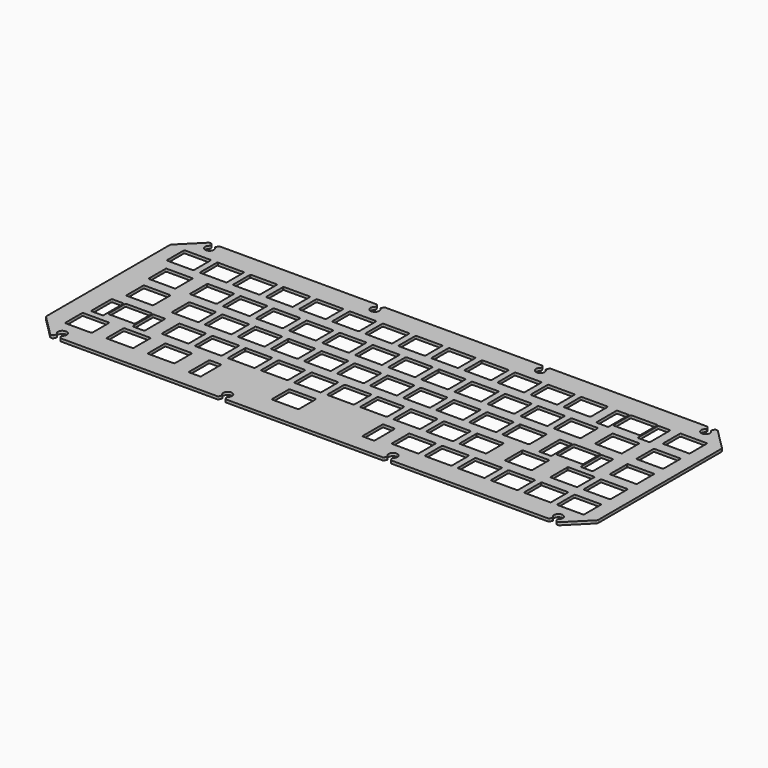
from build123d import *

# Parameters (mm, degrees)
PAD_DEPTH = 1.6


with BuildPart() as part:
    # Sketch → Pad (new body)
    with BuildSketch(Plane.XY):
        with BuildLine():
            ThreePointArc((-146.81466, -56.860608), (-146.32803, -57.185787), (-145.754, -57.299982))
            Line((-145.489, -57.299986), (-145.754, -57.299982))
            ThreePointArc((-145.489, -57.299986), (-145.09473, -57.187997), (-144.818209, -56.885464))
            Line((-144.289404, -55.82809), (-144.818209, -56.885464))
            ThreePointArc((-144.289404, -55.82809), (-144.225955, -55.339903), (-144.478952, -54.917593))
            ThreePointArc((-141.271129, -54.917616), (-142.87501, -50.500052), (-144.478952, -54.917593))
            ThreePointArc((-141.271129, -54.917616), (-141.524193, -55.340066), (-141.460664, -55.8284))
            Line((-140.931734, -56.885582), (-141.460664, -55.8284))
            ThreePointArc((-140.931734, -56.885582), (-140.655217, -57.188039), (-140.261, -57.3))
            Line((-50.2385, -57.3), (-140.261, -57.3))
            ThreePointArc((-50.2385, -57.3), (-49.844202, -57.187988), (-49.56768, -56.88541))
            Line((-49.03918, -55.828411), (-49.56768, -56.88541))
            ThreePointArc((-49.03918, -55.828411), (-48.975753, -55.340091), (-49.228841, -54.917686))
            ThreePointArc((-46.021178, -54.917702), (-47.624987, -50.500035), (-49.228841, -54.917686))
            ThreePointArc((-46.021178, -54.917702), (-46.274265, -55.340099), (-46.210837, -55.828411))
            Line((-45.682324, -56.885416), (-46.210837, -55.828411))
            ThreePointArc((-45.682324, -56.885416), (-45.405802, -57.18799), (-45.011507, -57.3))
            Line((45.0115, -57.3), (-45.011507, -57.3))
            ThreePointArc((45.0115, -57.3), (45.405795, -57.18799), (45.682317, -56.885416))
            Line((46.210826, -55.828423), (45.682317, -56.885416))
            ThreePointArc((46.210826, -55.828423), (46.274256, -55.340102), (46.021169, -54.917695))
            ThreePointArc((49.228863, -54.917718), (47.625047, -50.500016), (46.021169, -54.917695))
            ThreePointArc((49.228863, -54.917718), (48.975778, -55.340105), (49.039197, -55.828408))
            Line((49.567675, -56.885401), (49.039197, -55.828408))
            ThreePointArc((49.567675, -56.885401), (49.844197, -57.187985), (50.2385, -57.3))
            Line((140.261, -57.3), (50.2385, -57.3))
            ThreePointArc((140.261, -57.3), (140.655222, -57.188035), (140.93174, -56.88557))
            Line((141.460636, -55.828411), (140.93174, -56.88557))
            ThreePointArc((141.460636, -55.828411), (141.524145, -55.340067), (141.27104, -54.917632))
            ThreePointArc((144.478439, -54.917377), (142.874388, -50.500265), (141.27104, -54.917632))
            ThreePointArc((144.478439, -54.917377), (144.225353, -55.339962), (144.289, -55.82841))
            Line((144.818354, -56.885743), (144.289, -55.82841))
            ThreePointArc((144.818354, -56.885743), (145.094868, -57.188074), (145.489, -57.299984))
            Line((145.754, -57.299984), (145.489, -57.299984))
            ThreePointArc((145.754, -57.299984), (146.328026, -57.185801), (146.81466, -56.860637))
            Line((158.435683, -45.23936), (146.81466, -56.860637))
            ThreePointArc((158.435683, -45.23936), (158.760838, -44.752724), (158.875016, -44.1787))
            Line((158.875016, 44.1787), (158.875016, -44.1787))
            ThreePointArc((158.875016, 44.1787), (158.760838, 44.752724), (158.435683, 45.23936))
            Line((146.81466, 56.860637), (158.435683, 45.23936))
            ThreePointArc((146.81466, 56.860637), (146.328026, 57.185801), (145.754, 57.299984))
            Line((145.488999, 57.299984), (145.754, 57.299984))
            ThreePointArc((145.488999, 57.299984), (145.094781, 57.188021), (144.818263, 56.885561))
            Line((144.289355, 55.8284), (144.818263, 56.885561))
            ThreePointArc((144.289355, 55.8284), (144.225832, 55.340081), (144.47889, 54.917645))
            ThreePointArc((141.271102, 54.917662), (142.874973, 50.500026), (144.47889, 54.917645))
            ThreePointArc((141.271102, 54.917662), (141.524163, 55.340094), (141.460643, 55.828411))
            Line((140.931738, 56.885574), (141.460643, 55.828411))
            ThreePointArc((140.931738, 56.885574), (140.65522, 57.188036), (140.261, 57.3))
            Line((50.2385, 57.3), (140.261, 57.3))
            ThreePointArc((50.2385, 57.3), (49.844201, 57.187988), (49.567679, 56.885408))
            Line((49.039178, 55.8284), (49.567679, 56.885408))
            ThreePointArc((49.039178, 55.8284), (48.975754, 55.340084), (49.228843, 54.917685))
            ThreePointArc((46.021179, 54.917657), (47.625049, 50.500052), (49.228843, 54.917685))
            ThreePointArc((46.021179, 54.917657), (46.27427, 55.340077), (46.210836, 55.828411))
            Line((45.682316, 56.885418), (46.210836, 55.828411))
            ThreePointArc((45.682316, 56.885418), (45.405795, 57.18799), (45.0115, 57.3))
            Line((-45.0115, 57.3), (45.0115, 57.3))
            ThreePointArc((-45.0115, 57.3), (-45.405801, 57.187986), (-45.682323, 56.885404))
            Line((-46.210808, 55.828411), (-45.682323, 56.885404))
            ThreePointArc((-46.210808, 55.828411), (-46.274228, 55.340107), (-46.021144, 54.917719))
            ThreePointArc((-49.228838, 54.917689), (-47.62495, 50.500017), (-46.021144, 54.917719))
            ThreePointArc((-49.228838, 54.917689), (-48.975753, 55.340093), (-49.039181, 55.828411))
            Line((-49.567686, 56.885412), (-49.039181, 55.828411))
            ThreePointArc((-49.567686, 56.885412), (-49.844208, 57.187989), (-50.238505, 57.3))
            Line((-140.261, 57.3), (-50.238505, 57.3))
            ThreePointArc((-140.261, 57.3), (-140.655192, 57.188054), (-140.931708, 56.885634))
            Line((-141.460679, 55.828575), (-140.931708, 56.885634))
            ThreePointArc((-141.460679, 55.828575), (-141.524241, 55.34018), (-141.271143, 54.917673))
            ThreePointArc((-144.478877, 54.917661), (-142.874994, 50.500033), (-141.271143, 54.917673))
            ThreePointArc((-144.478877, 54.917661), (-144.22581, 55.340083), (-144.2893, 55.8284))
            Line((-144.818103, 56.885568), (-144.2893, 55.8284))
            ThreePointArc((-144.818103, 56.885568), (-145.094683, 57.188123), (-145.489012, 57.300104))
            Line((-145.754, 57.300086), (-145.489012, 57.300104))
            ThreePointArc((-145.754, 57.300086), (-146.32803, 57.185868), (-146.81466, 56.860679))
            Line((-158.435404, 45.23902), (-146.81466, 56.860679))
            ThreePointArc((-158.435404, 45.23902), (-158.760441, 44.752537), (-158.874578, 44.1787))
            Line((-158.874574, -44.1787), (-158.874578, 44.1787))
            ThreePointArc((-158.874574, -44.1787), (-158.760437, -44.752537), (-158.435398, -45.23902))
            Line((-146.81466, -56.860608), (-158.435398, -45.23902))
        make_face()
        with BuildLine():
            ThreePointArc((-150.125, 44.5), (-150.478553, 44.353553), (-150.625, 44))
            Line((-150.625, 44), (-150.625, 32.2))
            ThreePointArc((-150.625, 32.2), (-150.478553, 31.846447), (-150.125, 31.7))
            Line((-150.125, 31.7), (-135.625, 31.7))
            ThreePointArc((-135.625, 31.7), (-135.271447, 31.846447), (-135.125, 32.2))
            Line((-135.125, 44), (-135.125, 32.2))
            ThreePointArc((-135.125, 44), (-135.271447, 44.353553), (-135.625, 44.5))
            Line((-150.125, 44.5), (-135.625, 44.5))
        make_face(mode=Mode.SUBTRACT)
        with BuildLine():
            ThreePointArc((-131.075, 44.5), (-131.428553, 44.353553), (-131.575, 44))
            Line((-131.575, 44), (-131.575, 32.2))
            ThreePointArc((-131.575, 32.2), (-131.428553, 31.846447), (-131.075, 31.7))
            Line((-131.075, 31.7), (-116.575, 31.7))
            ThreePointArc((-116.575, 31.7), (-116.221447, 31.846447), (-116.075, 32.2))
            Line((-116.075, 44), (-116.075, 32.2))
            ThreePointArc((-116.075, 44), (-116.221447, 44.353553), (-116.575, 44.5))
            Line((-131.075, 44.5), (-116.575, 44.5))
        make_face(mode=Mode.SUBTRACT)
        with BuildLine():
            ThreePointArc((-112.025, 44.5), (-112.378553, 44.353553), (-112.525, 44))
            Line((-112.525, 44), (-112.525, 32.2))
            ThreePointArc((-112.525, 32.2), (-112.378553, 31.846447), (-112.025, 31.7))
            Line((-112.025, 31.7), (-97.525, 31.7))
            ThreePointArc((-97.525, 31.7), (-97.171447, 31.846447), (-97.025, 32.2))
            Line((-97.025, 44), (-97.025, 32.2))
            ThreePointArc((-97.025, 44), (-97.171447, 44.353553), (-97.525, 44.5))
            Line((-112.025, 44.5), (-97.525, 44.5))
        make_face(mode=Mode.SUBTRACT)
        with BuildLine():
            ThreePointArc((-92.975, 44.5), (-93.328553, 44.353553), (-93.475, 44))
            Line((-93.475, 44), (-93.475, 32.2))
            ThreePointArc((-93.475, 32.2), (-93.328553, 31.846447), (-92.975, 31.7))
            Line((-92.975, 31.7), (-78.475, 31.7))
            ThreePointArc((-78.475, 31.7), (-78.121447, 31.846447), (-77.975, 32.2))
            Line((-77.975, 44), (-77.975, 32.2))
            ThreePointArc((-77.975, 44), (-78.121447, 44.353553), (-78.475, 44.5))
            Line((-92.975, 44.5), (-78.475, 44.5))
        make_face(mode=Mode.SUBTRACT)
        with BuildLine():
            ThreePointArc((-73.925, 44.5), (-74.278553, 44.353553), (-74.425, 44))
            Line((-74.425, 44), (-74.425, 32.2))
            ThreePointArc((-74.425, 32.2), (-74.278553, 31.846447), (-73.925, 31.7))
            Line((-73.925, 31.7), (-59.425, 31.7))
            ThreePointArc((-59.425, 31.7), (-59.071447, 31.846447), (-58.925, 32.2))
            Line((-58.925, 44), (-58.925, 32.2))
            ThreePointArc((-58.925, 44), (-59.071447, 44.353553), (-59.425, 44.5))
            Line((-73.925, 44.5), (-59.425, 44.5))
        make_face(mode=Mode.SUBTRACT)
        with BuildLine():
            ThreePointArc((-54.875, 44.5), (-55.228553, 44.353553), (-55.375, 44))
            Line((-55.375, 44), (-55.375, 32.2))
            ThreePointArc((-55.375, 32.2), (-55.228553, 31.846447), (-54.875, 31.7))
            Line((-54.875, 31.7), (-40.375, 31.7))
            ThreePointArc((-40.375, 31.7), (-40.021447, 31.846447), (-39.875, 32.2))
            Line((-39.875, 44), (-39.875, 32.2))
            ThreePointArc((-39.875, 44), (-40.021447, 44.353553), (-40.375, 44.5))
            Line((-54.875, 44.5), (-40.375, 44.5))
        make_face(mode=Mode.SUBTRACT)
        with BuildLine():
            ThreePointArc((-35.825, 44.5), (-36.178553, 44.353553), (-36.325, 44))
            Line((-36.325, 44), (-36.325, 32.2))
            ThreePointArc((-36.325, 32.2), (-36.178553, 31.846447), (-35.825, 31.7))
            Line((-35.825, 31.7), (-21.325, 31.7))
            ThreePointArc((-21.325, 31.7), (-20.971447, 31.846447), (-20.825, 32.2))
            Line((-20.825, 44), (-20.825, 32.2))
            ThreePointArc((-20.825, 44), (-20.971447, 44.353553), (-21.325, 44.5))
            Line((-35.825, 44.5), (-21.325, 44.5))
        make_face(mode=Mode.SUBTRACT)
        with BuildLine():
            ThreePointArc((-16.775, 44.5), (-17.128553, 44.353553), (-17.275, 44))
            Line((-17.275, 44), (-17.275, 32.2))
            ThreePointArc((-17.275, 32.2), (-17.128553, 31.846447), (-16.775, 31.7))
            Line((-16.775, 31.7), (-2.275, 31.7))
            ThreePointArc((-2.275, 31.7), (-1.921447, 31.846447), (-1.775, 32.2))
            Line((-1.775, 44), (-1.775, 32.2))
            ThreePointArc((-1.775, 44), (-1.921447, 44.353553), (-2.275, 44.5))
            Line((-16.775, 44.5), (-2.275, 44.5))
        make_face(mode=Mode.SUBTRACT)
        with BuildLine():
            ThreePointArc((2.275, 44.5), (1.921447, 44.353553), (1.775, 44))
            Line((1.775, 44), (1.775, 32.2))
            ThreePointArc((1.775, 32.2), (1.921447, 31.846447), (2.275, 31.7))
            Line((2.275, 31.7), (16.775, 31.7))
            ThreePointArc((16.775, 31.7), (17.128553, 31.846447), (17.275, 32.2))
            Line((17.275, 44), (17.275, 32.2))
            ThreePointArc((17.275, 44), (17.128553, 44.353553), (16.775, 44.5))
            Line((2.275, 44.5), (16.775, 44.5))
        make_face(mode=Mode.SUBTRACT)
        with BuildLine():
            ThreePointArc((21.325, 44.5), (20.971447, 44.353553), (20.825, 44))
            Line((20.825, 44), (20.825, 32.2))
            ThreePointArc((20.825, 32.2), (20.971447, 31.846447), (21.325, 31.7))
            Line((21.325, 31.7), (35.825, 31.7))
            ThreePointArc((35.825, 31.7), (36.178553, 31.846447), (36.325, 32.2))
            Line((36.325, 44), (36.325, 32.2))
            ThreePointArc((36.325, 44), (36.178553, 44.353553), (35.825, 44.5))
            Line((21.325, 44.5), (35.825, 44.5))
        make_face(mode=Mode.SUBTRACT)
        with BuildLine():
            ThreePointArc((40.375, 44.5), (40.021447, 44.353553), (39.875, 44))
            Line((39.875, 44), (39.875, 32.2))
            ThreePointArc((39.875, 32.2), (40.021447, 31.846447), (40.375, 31.7))
            Line((40.375, 31.7), (54.875, 31.7))
            ThreePointArc((54.875, 31.7), (55.228553, 31.846447), (55.375, 32.2))
            Line((55.375, 44), (55.375, 32.2))
            ThreePointArc((55.375, 44), (55.228553, 44.353553), (54.875, 44.5))
            Line((40.375, 44.5), (54.875, 44.5))
        make_face(mode=Mode.SUBTRACT)
        with BuildLine():
            ThreePointArc((59.425, 44.5), (59.071447, 44.353553), (58.925, 44))
            Line((58.925, 44), (58.925, 32.2))
            ThreePointArc((58.925, 32.2), (59.071447, 31.846447), (59.425, 31.7))
            Line((59.425, 31.7), (73.925, 31.7))
            ThreePointArc((73.925, 31.7), (74.278553, 31.846447), (74.425, 32.2))
            Line((74.425, 44), (74.425, 32.2))
            ThreePointArc((74.425, 44), (74.278553, 44.353553), (73.925, 44.5))
            Line((59.425, 44.5), (73.925, 44.5))
        make_face(mode=Mode.SUBTRACT)
        with BuildLine():
            ThreePointArc((78.475, 44.5), (78.121447, 44.353553), (77.975, 44))
            Line((77.975, 44), (77.975, 32.2))
            ThreePointArc((77.975, 32.2), (78.121447, 31.846447), (78.475, 31.7))
            Line((78.475, 31.7), (92.975, 31.7))
            ThreePointArc((92.975, 31.7), (93.328553, 31.846447), (93.475, 32.2))
            Line((93.475, 44), (93.475, 32.2))
            ThreePointArc((93.475, 44), (93.328553, 44.353553), (92.975, 44.5))
            Line((78.475, 44.5), (92.975, 44.5))
        make_face(mode=Mode.SUBTRACT)
        with BuildLine():
            ThreePointArc((107.05, 44.5), (106.696447, 44.353553), (106.55, 44))
            Line((106.55, 44), (106.55, 32.2))
            ThreePointArc((106.55, 32.2), (106.696447, 31.846447), (107.05, 31.7))
            Line((107.05, 31.7), (121.55, 31.7))
            ThreePointArc((121.55, 31.7), (121.903553, 31.846447), (122.05, 32.2))
            Line((122.05, 44), (122.05, 32.2))
            ThreePointArc((122.05, 44), (121.903553, 44.353553), (121.55, 44.5))
            Line((107.05, 44.5), (121.55, 44.5))
        make_face(mode=Mode.SUBTRACT)
        with BuildLine():
            ThreePointArc((99.362, 44.1), (99.008447, 43.953553), (98.862, 43.6))
            Line((98.862, 43.6), (98.862, 29.6))
            ThreePointArc((98.862, 29.6), (99.008447, 29.246447), (99.362, 29.1))
            Line((99.362, 29.1), (105.362, 29.1))
            ThreePointArc((105.362, 29.1), (105.715553, 29.246447), (105.862, 29.6))
            Line((105.862, 43.6), (105.862, 29.6))
            ThreePointArc((105.862, 43.6), (105.715553, 43.953553), (105.362, 44.1))
            Line((99.362, 44.1), (105.362, 44.1))
        make_face(mode=Mode.SUBTRACT)
        with BuildLine():
            ThreePointArc((123.238, 44.1), (122.884447, 43.953553), (122.738, 43.6))
            Line((122.738, 43.6), (122.738, 29.6))
            ThreePointArc((122.738, 29.6), (122.884447, 29.246447), (123.238, 29.1))
            Line((123.238, 29.1), (129.238, 29.1))
            ThreePointArc((129.238, 29.1), (129.591553, 29.246447), (129.738, 29.6))
            Line((129.738, 43.6), (129.738, 29.6))
            ThreePointArc((129.738, 43.6), (129.591553, 43.953553), (129.238, 44.1))
            Line((123.238, 44.1), (129.238, 44.1))
        make_face(mode=Mode.SUBTRACT)
        with BuildLine():
            ThreePointArc((135.625, 44.5), (135.271447, 44.353553), (135.125, 44))
            Line((135.125, 44), (135.125, 32.2))
            ThreePointArc((135.125, 32.2), (135.271447, 31.846447), (135.625, 31.7))
            Line((135.625, 31.7), (150.125, 31.7))
            ThreePointArc((150.125, 31.7), (150.478553, 31.846447), (150.625, 32.2))
            Line((150.625, 44), (150.625, 32.2))
            ThreePointArc((150.625, 44), (150.478553, 44.353553), (150.125, 44.5))
            Line((135.625, 44.5), (150.125, 44.5))
        make_face(mode=Mode.SUBTRACT)
        with BuildLine():
            ThreePointArc((-145.363, 25.45), (-145.716553, 25.303553), (-145.863, 24.95))
            Line((-145.863, 24.95), (-145.863, 13.15))
            ThreePointArc((-145.863, 13.15), (-145.716553, 12.796447), (-145.363, 12.65))
            Line((-145.363, 12.65), (-130.863, 12.65))
            ThreePointArc((-130.863, 12.65), (-130.509447, 12.796447), (-130.363, 13.15))
            Line((-130.363, 24.95), (-130.363, 13.15))
            ThreePointArc((-130.363, 24.95), (-130.509447, 25.303553), (-130.863, 25.45))
            Line((-145.363, 25.45), (-130.863, 25.45))
        make_face(mode=Mode.SUBTRACT)
        with BuildLine():
            ThreePointArc((-121.55, 25.45), (-121.903553, 25.303553), (-122.05, 24.95))
            Line((-122.05, 24.95), (-122.05, 13.15))
            ThreePointArc((-122.05, 13.15), (-121.903553, 12.796447), (-121.55, 12.65))
            Line((-121.55, 12.65), (-107.05, 12.65))
            ThreePointArc((-107.05, 12.65), (-106.696447, 12.796447), (-106.55, 13.15))
            Line((-106.55, 24.95), (-106.55, 13.15))
            ThreePointArc((-106.55, 24.95), (-106.696447, 25.303553), (-107.05, 25.45))
            Line((-121.55, 25.45), (-107.05, 25.45))
        make_face(mode=Mode.SUBTRACT)
        with BuildLine():
            ThreePointArc((-102.5, 25.45), (-102.853553, 25.303553), (-103, 24.95))
            Line((-103, 24.95), (-103, 13.15))
            ThreePointArc((-103, 13.15), (-102.853553, 12.796447), (-102.5, 12.65))
            Line((-102.5, 12.65), (-88, 12.65))
            ThreePointArc((-88, 12.65), (-87.646447, 12.796447), (-87.5, 13.15))
            Line((-87.5, 24.95), (-87.5, 13.15))
            ThreePointArc((-87.5, 24.95), (-87.646447, 25.303553), (-88, 25.45))
            Line((-102.5, 25.45), (-88, 25.45))
        make_face(mode=Mode.SUBTRACT)
        with BuildLine():
            ThreePointArc((-83.45, 25.45), (-83.803553, 25.303553), (-83.95, 24.95))
            Line((-83.95, 24.95), (-83.95, 13.15))
            ThreePointArc((-83.95, 13.15), (-83.803553, 12.796447), (-83.45, 12.65))
            Line((-83.45, 12.65), (-68.95, 12.65))
            ThreePointArc((-68.95, 12.65), (-68.596447, 12.796447), (-68.45, 13.15))
            Line((-68.45, 24.95), (-68.45, 13.15))
            ThreePointArc((-68.45, 24.95), (-68.596447, 25.303553), (-68.95, 25.45))
            Line((-83.45, 25.45), (-68.95, 25.45))
        make_face(mode=Mode.SUBTRACT)
        with BuildLine():
            ThreePointArc((-64.4, 25.45), (-64.753553, 25.303553), (-64.9, 24.95))
            Line((-64.9, 24.95), (-64.9, 13.15))
            ThreePointArc((-64.9, 13.15), (-64.753553, 12.796447), (-64.4, 12.65))
            Line((-64.4, 12.65), (-49.9, 12.65))
            ThreePointArc((-49.9, 12.65), (-49.546447, 12.796447), (-49.4, 13.15))
            Line((-49.4, 24.95), (-49.4, 13.15))
            ThreePointArc((-49.4, 24.95), (-49.546447, 25.303553), (-49.9, 25.45))
            Line((-64.4, 25.45), (-49.9, 25.45))
        make_face(mode=Mode.SUBTRACT)
        with BuildLine():
            ThreePointArc((-45.35, 25.45), (-45.703553, 25.303553), (-45.85, 24.95))
            Line((-45.85, 24.95), (-45.85, 13.15))
            ThreePointArc((-45.85, 13.15), (-45.703553, 12.796447), (-45.35, 12.65))
            Line((-45.35, 12.65), (-30.85, 12.65))
            ThreePointArc((-30.85, 12.65), (-30.496447, 12.796447), (-30.35, 13.15))
            Line((-30.35, 24.95), (-30.35, 13.15))
            ThreePointArc((-30.35, 24.95), (-30.496447, 25.303553), (-30.85, 25.45))
            Line((-45.35, 25.45), (-30.85, 25.45))
        make_face(mode=Mode.SUBTRACT)
        with BuildLine():
            ThreePointArc((-26.3, 25.45), (-26.653553, 25.303553), (-26.8, 24.95))
            Line((-26.8, 24.95), (-26.8, 13.15))
            ThreePointArc((-26.8, 13.15), (-26.653553, 12.796447), (-26.3, 12.65))
            Line((-26.3, 12.65), (-11.8, 12.65))
            ThreePointArc((-11.8, 12.65), (-11.446447, 12.796447), (-11.3, 13.15))
            Line((-11.3, 24.95), (-11.3, 13.15))
            ThreePointArc((-11.3, 24.95), (-11.446447, 25.303553), (-11.8, 25.45))
            Line((-26.3, 25.45), (-11.8, 25.45))
        make_face(mode=Mode.SUBTRACT)
        with BuildLine():
            ThreePointArc((-7.25, 25.45), (-7.603553, 25.303553), (-7.75, 24.95))
            Line((-7.75, 24.95), (-7.75, 13.15))
            ThreePointArc((-7.75, 13.15), (-7.603553, 12.796447), (-7.25, 12.65))
            Line((-7.25, 12.65), (7.25, 12.65))
            ThreePointArc((7.25, 12.65), (7.603553, 12.796447), (7.75, 13.15))
            Line((7.75, 24.95), (7.75, 13.15))
            ThreePointArc((7.75, 24.95), (7.603553, 25.303553), (7.25, 25.45))
            Line((-7.25, 25.45), (7.25, 25.45))
        make_face(mode=Mode.SUBTRACT)
        with BuildLine():
            ThreePointArc((11.8, 25.45), (11.446447, 25.303553), (11.3, 24.95))
            Line((11.3, 24.95), (11.3, 13.15))
            ThreePointArc((11.3, 13.15), (11.446447, 12.796447), (11.8, 12.65))
            Line((11.8, 12.65), (26.3, 12.65))
            ThreePointArc((26.3, 12.65), (26.653553, 12.796447), (26.8, 13.15))
            Line((26.8, 24.95), (26.8, 13.15))
            ThreePointArc((26.8, 24.95), (26.653553, 25.303553), (26.3, 25.45))
            Line((11.8, 25.45), (26.3, 25.45))
        make_face(mode=Mode.SUBTRACT)
        with BuildLine():
            ThreePointArc((30.85, 25.45), (30.496447, 25.303553), (30.35, 24.95))
            Line((30.35, 24.95), (30.35, 13.15))
            ThreePointArc((30.35, 13.15), (30.496447, 12.796447), (30.85, 12.65))
            Line((30.85, 12.65), (45.35, 12.65))
            ThreePointArc((45.35, 12.65), (45.703553, 12.796447), (45.85, 13.15))
            Line((45.85, 24.95), (45.85, 13.15))
            ThreePointArc((45.85, 24.95), (45.703553, 25.303553), (45.35, 25.45))
            Line((30.85, 25.45), (45.35, 25.45))
        make_face(mode=Mode.SUBTRACT)
        with BuildLine():
            ThreePointArc((49.9, 25.45), (49.546447, 25.303553), (49.4, 24.95))
            Line((49.4, 24.95), (49.4, 13.15))
            ThreePointArc((49.4, 13.15), (49.546447, 12.796447), (49.9, 12.65))
            Line((49.9, 12.65), (64.4, 12.65))
            ThreePointArc((64.4, 12.65), (64.753553, 12.796447), (64.9, 13.15))
            Line((64.9, 24.95), (64.9, 13.15))
            ThreePointArc((64.9, 24.95), (64.753553, 25.303553), (64.4, 25.45))
            Line((49.9, 25.45), (64.4, 25.45))
        make_face(mode=Mode.SUBTRACT)
        with BuildLine():
            ThreePointArc((68.95, 25.45), (68.596447, 25.303553), (68.45, 24.95))
            Line((68.45, 24.95), (68.45, 13.15))
            ThreePointArc((68.45, 13.15), (68.596447, 12.796447), (68.95, 12.65))
            Line((68.95, 12.65), (83.45, 12.65))
            ThreePointArc((83.45, 12.65), (83.803553, 12.796447), (83.95, 13.15))
            Line((83.95, 24.95), (83.95, 13.15))
            ThreePointArc((83.95, 24.95), (83.803553, 25.303553), (83.45, 25.45))
            Line((68.95, 25.45), (83.45, 25.45))
        make_face(mode=Mode.SUBTRACT)
        with BuildLine():
            ThreePointArc((88, 25.45), (87.646447, 25.303553), (87.5, 24.95))
            Line((87.5, 24.95), (87.5, 13.15))
            ThreePointArc((87.5, 13.15), (87.646447, 12.796447), (88, 12.65))
            Line((88, 12.65), (102.5, 12.65))
            ThreePointArc((102.5, 12.65), (102.853553, 12.796447), (103, 13.15))
            Line((103, 24.95), (103, 13.15))
            ThreePointArc((103, 24.95), (102.853553, 25.303553), (102.5, 25.45))
            Line((88, 25.45), (102.5, 25.45))
        make_face(mode=Mode.SUBTRACT)
        with BuildLine():
            ThreePointArc((111.812, 25.45), (111.458447, 25.303553), (111.312, 24.95))
            Line((111.312, 24.95), (111.312, 13.15))
            ThreePointArc((111.312, 13.15), (111.458447, 12.796447), (111.812, 12.65))
            Line((111.812, 12.65), (126.312, 12.65))
            ThreePointArc((126.312, 12.65), (126.665553, 12.796447), (126.812, 13.15))
            Line((126.812, 24.95), (126.812, 13.15))
            ThreePointArc((126.812, 24.95), (126.665553, 25.303553), (126.312, 25.45))
            Line((111.812, 25.45), (126.312, 25.45))
        make_face(mode=Mode.SUBTRACT)
        with BuildLine():
            ThreePointArc((135.625, 25.45), (135.271447, 25.303553), (135.125, 24.95))
            Line((135.125, 24.95), (135.125, 13.15))
            ThreePointArc((135.125, 13.15), (135.271447, 12.796447), (135.625, 12.65))
            Line((135.625, 12.65), (150.125, 12.65))
            ThreePointArc((150.125, 12.65), (150.478553, 12.796447), (150.625, 13.15))
            Line((150.625, 24.95), (150.625, 13.15))
            ThreePointArc((150.625, 24.95), (150.478553, 25.303553), (150.125, 25.45))
            Line((135.625, 25.45), (150.125, 25.45))
        make_face(mode=Mode.SUBTRACT)
        with BuildLine():
            ThreePointArc((-142.981, 6.4), (-143.334553, 6.253553), (-143.481, 5.9))
            Line((-143.481, 5.9), (-143.481, -5.9))
            ThreePointArc((-143.481, -5.9), (-143.334553, -6.253553), (-142.981, -6.4))
            Line((-142.981, -6.4), (-128.481, -6.4))
            ThreePointArc((-128.481, -6.4), (-128.127447, -6.253553), (-127.981, -5.9))
            Line((-127.981, 5.9), (-127.981, -5.9))
            ThreePointArc((-127.981, 5.9), (-128.127447, 6.253553), (-128.481, 6.4))
            Line((-142.981, 6.4), (-128.481, 6.4))
        make_face(mode=Mode.SUBTRACT)
        with BuildLine():
            ThreePointArc((-116.788, 6.4), (-117.141553, 6.253553), (-117.288, 5.9))
            Line((-117.288, 5.9), (-117.288, -5.9))
            ThreePointArc((-117.288, -5.9), (-117.141553, -6.253553), (-116.788, -6.4))
            Line((-116.788, -6.4), (-102.288, -6.4))
            ThreePointArc((-102.288, -6.4), (-101.934447, -6.253553), (-101.788, -5.9))
            Line((-101.788, 5.9), (-101.788, -5.9))
            ThreePointArc((-101.788, 5.9), (-101.934447, 6.253553), (-102.288, 6.4))
            Line((-116.788, 6.4), (-102.288, 6.4))
        make_face(mode=Mode.SUBTRACT)
        with BuildLine():
            ThreePointArc((-97.7375, 6.4), (-98.091053, 6.253553), (-98.2375, 5.9))
            Line((-98.2375, 5.9), (-98.2375, -5.9))
            ThreePointArc((-98.2375, -5.9), (-98.091053, -6.253553), (-97.7375, -6.4))
            Line((-97.7375, -6.4), (-83.2375, -6.4))
            ThreePointArc((-83.2375, -6.4), (-82.883947, -6.253553), (-82.7375, -5.9))
            Line((-82.7375, 5.9), (-82.7375, -5.9))
            ThreePointArc((-82.7375, 5.9), (-82.883947, 6.253553), (-83.2375, 6.4))
            Line((-97.7375, 6.4), (-83.2375, 6.4))
        make_face(mode=Mode.SUBTRACT)
        with BuildLine():
            ThreePointArc((-78.6875, 6.4), (-79.041053, 6.253553), (-79.1875, 5.9))
            Line((-79.1875, 5.9), (-79.1875, -5.9))
            ThreePointArc((-79.1875, -5.9), (-79.041053, -6.253553), (-78.6875, -6.4))
            Line((-78.6875, -6.4), (-64.1875, -6.4))
            ThreePointArc((-64.1875, -6.4), (-63.833947, -6.253553), (-63.6875, -5.9))
            Line((-63.6875, 5.9), (-63.6875, -5.9))
            ThreePointArc((-63.6875, 5.9), (-63.833947, 6.253553), (-64.1875, 6.4))
            Line((-78.6875, 6.4), (-64.1875, 6.4))
        make_face(mode=Mode.SUBTRACT)
        with BuildLine():
            ThreePointArc((-59.6375, 6.4), (-59.991053, 6.253553), (-60.1375, 5.9))
            Line((-60.1375, 5.9), (-60.1375, -5.9))
            ThreePointArc((-60.1375, -5.9), (-59.991053, -6.253553), (-59.6375, -6.4))
            Line((-59.6375, -6.4), (-45.1375, -6.4))
            ThreePointArc((-45.1375, -6.4), (-44.783947, -6.253553), (-44.6375, -5.9))
            Line((-44.6375, 5.9), (-44.6375, -5.9))
            ThreePointArc((-44.6375, 5.9), (-44.783947, 6.253553), (-45.1375, 6.4))
            Line((-59.6375, 6.4), (-45.1375, 6.4))
        make_face(mode=Mode.SUBTRACT)
        with BuildLine():
            ThreePointArc((-40.5875, 6.4), (-40.941053, 6.253553), (-41.0875, 5.9))
            Line((-41.0875, 5.9), (-41.0875, -5.9))
            ThreePointArc((-41.0875, -5.9), (-40.941053, -6.253553), (-40.5875, -6.4))
            Line((-40.5875, -6.4), (-26.0875, -6.4))
            ThreePointArc((-26.0875, -6.4), (-25.733947, -6.253553), (-25.5875, -5.9))
            Line((-25.5875, 5.9), (-25.5875, -5.9))
            ThreePointArc((-25.5875, 5.9), (-25.733947, 6.253553), (-26.0875, 6.4))
            Line((-40.5875, 6.4), (-26.0875, 6.4))
        make_face(mode=Mode.SUBTRACT)
        with BuildLine():
            ThreePointArc((-21.5375, 6.4), (-21.891053, 6.253553), (-22.0375, 5.9))
            Line((-22.0375, 5.9), (-22.0375, -5.9))
            ThreePointArc((-22.0375, -5.9), (-21.891053, -6.253553), (-21.5375, -6.4))
            Line((-21.5375, -6.4), (-7.0375, -6.4))
            ThreePointArc((-7.0375, -6.4), (-6.683947, -6.253553), (-6.5375, -5.9))
            Line((-6.5375, 5.9), (-6.5375, -5.9))
            ThreePointArc((-6.5375, 5.9), (-6.683947, 6.253553), (-7.0375, 6.4))
            Line((-21.5375, 6.4), (-7.0375, 6.4))
        make_face(mode=Mode.SUBTRACT)
        with BuildLine():
            ThreePointArc((-2.4875, 6.4), (-2.841053, 6.253553), (-2.9875, 5.9))
            Line((-2.9875, 5.9), (-2.9875, -5.9))
            ThreePointArc((-2.9875, -5.9), (-2.841053, -6.253553), (-2.4875, -6.4))
            Line((-2.4875, -6.4), (12.0125, -6.4))
            ThreePointArc((12.0125, -6.4), (12.366053, -6.253553), (12.5125, -5.9))
            Line((12.5125, 5.9), (12.5125, -5.9))
            ThreePointArc((12.5125, 5.9), (12.366053, 6.253553), (12.0125, 6.4))
            Line((-2.4875, 6.4), (12.0125, 6.4))
        make_face(mode=Mode.SUBTRACT)
        with BuildLine():
            ThreePointArc((16.5625, 6.4), (16.208947, 6.253553), (16.0625, 5.9))
            Line((16.0625, 5.9), (16.0625, -5.9))
            ThreePointArc((16.0625, -5.9), (16.208947, -6.253553), (16.5625, -6.4))
            Line((16.5625, -6.4), (31.0625, -6.4))
            ThreePointArc((31.0625, -6.4), (31.416053, -6.253553), (31.5625, -5.9))
            Line((31.5625, 5.9), (31.5625, -5.9))
            ThreePointArc((31.5625, 5.9), (31.416053, 6.253553), (31.0625, 6.4))
            Line((16.5625, 6.4), (31.0625, 6.4))
        make_face(mode=Mode.SUBTRACT)
        with BuildLine():
            ThreePointArc((35.6125, 6.4), (35.258947, 6.253553), (35.1125, 5.9))
            Line((35.1125, 5.9), (35.1125, -5.9))
            ThreePointArc((35.1125, -5.9), (35.258947, -6.253553), (35.6125, -6.4))
            Line((35.6125, -6.4), (50.1125, -6.4))
            ThreePointArc((50.1125, -6.4), (50.466053, -6.253553), (50.6125, -5.9))
            Line((50.6125, 5.9), (50.6125, -5.9))
            ThreePointArc((50.6125, 5.9), (50.466053, 6.253553), (50.1125, 6.4))
            Line((35.6125, 6.4), (50.1125, 6.4))
        make_face(mode=Mode.SUBTRACT)
        with BuildLine():
            ThreePointArc((54.6625, 6.4), (54.308947, 6.253553), (54.1625, 5.9))
            Line((54.1625, 5.9), (54.1625, -5.9))
            ThreePointArc((54.1625, -5.9), (54.308947, -6.253553), (54.6625, -6.4))
            Line((54.6625, -6.4), (69.1625, -6.4))
            ThreePointArc((69.1625, -6.4), (69.516053, -6.253553), (69.6625, -5.9))
            Line((69.6625, 5.9), (69.6625, -5.9))
            ThreePointArc((69.6625, 5.9), (69.516053, 6.253553), (69.1625, 6.4))
            Line((54.6625, 6.4), (69.1625, 6.4))
        make_face(mode=Mode.SUBTRACT)
        with BuildLine():
            ThreePointArc((73.7125, 6.4), (73.358947, 6.253553), (73.2125, 5.9))
            Line((73.2125, 5.9), (73.2125, -5.9))
            ThreePointArc((73.2125, -5.9), (73.358947, -6.253553), (73.7125, -6.4))
            Line((73.7125, -6.4), (88.2125, -6.4))
            ThreePointArc((88.2125, -6.4), (88.566053, -6.253553), (88.7125, -5.9))
            Line((88.7125, 5.9), (88.7125, -5.9))
            ThreePointArc((88.7125, 5.9), (88.566053, 6.253553), (88.2125, 6.4))
            Line((73.7125, 6.4), (88.2125, 6.4))
        make_face(mode=Mode.SUBTRACT)
        with BuildLine():
            ThreePointArc((104.669, 6.4), (104.315447, 6.253553), (104.169, 5.9))
            Line((104.169, 5.9), (104.169, -5.9))
            ThreePointArc((104.169, -5.9), (104.315447, -6.253553), (104.669, -6.4))
            Line((104.669, -6.4), (119.169, -6.4))
            ThreePointArc((119.169, -6.4), (119.522553, -6.253553), (119.669, -5.9))
            Line((119.669, 5.9), (119.669, -5.9))
            ThreePointArc((119.669, 5.9), (119.522553, 6.253553), (119.169, 6.4))
            Line((104.669, 6.4), (119.169, 6.4))
        make_face(mode=Mode.SUBTRACT)
        with BuildLine():
            ThreePointArc((96.9808, 6), (96.627247, 5.853553), (96.4808, 5.5))
            Line((96.4808, 5.5), (96.4808, -8.5))
            ThreePointArc((96.4808, -8.5), (96.627247, -8.853553), (96.9808, -9))
            Line((96.9808, -9), (102.981, -9))
            ThreePointArc((102.981, -9), (103.334553, -8.853553), (103.481, -8.5))
            Line((103.481, 5.5), (103.481, -8.5))
            ThreePointArc((103.481, 5.5), (103.334553, 5.853553), (102.981, 6))
            Line((96.9808, 6), (102.981, 6))
        make_face(mode=Mode.SUBTRACT)
        with BuildLine():
            ThreePointArc((120.857, 6), (120.503447, 5.853553), (120.357, 5.5))
            Line((120.357, 5.5), (120.357, -8.5))
            ThreePointArc((120.357, -8.5), (120.503447, -8.853553), (120.857, -9))
            Line((120.857, -9), (126.857, -9))
            ThreePointArc((126.857, -9), (127.210553, -8.853553), (127.357, -8.5))
            Line((127.357, 5.5), (127.357, -8.5))
            ThreePointArc((127.357, 5.5), (127.210553, 5.853553), (126.857, 6))
            Line((120.857, 6), (126.857, 6))
        make_face(mode=Mode.SUBTRACT)
        with BuildLine():
            ThreePointArc((135.625, 6.4), (135.271447, 6.253553), (135.125, 5.9))
            Line((135.125, 5.9), (135.125, -5.9))
            ThreePointArc((135.125, -5.9), (135.271447, -6.253553), (135.625, -6.4))
            Line((135.625, -6.4), (150.125, -6.4))
            ThreePointArc((150.125, -6.4), (150.478553, -6.253553), (150.625, -5.9))
            Line((150.625, 5.9), (150.625, -5.9))
            ThreePointArc((150.625, 5.9), (150.478553, 6.253553), (150.125, 6.4))
            Line((135.625, 6.4), (150.125, 6.4))
        make_face(mode=Mode.SUBTRACT)
        with BuildLine():
            ThreePointArc((-138.219, -12.65), (-138.572553, -12.796447), (-138.719, -13.15))
            Line((-138.719, -13.15), (-138.719, -24.95))
            ThreePointArc((-138.719, -24.95), (-138.572553, -25.303553), (-138.219, -25.45))
            Line((-138.219, -25.45), (-123.719, -25.45))
            ThreePointArc((-123.719, -25.45), (-123.365447, -25.303553), (-123.219, -24.95))
            Line((-123.219, -13.15), (-123.219, -24.95))
            ThreePointArc((-123.219, -13.15), (-123.365447, -12.796447), (-123.719, -12.65))
            Line((-138.219, -12.65), (-123.719, -12.65))
        make_face(mode=Mode.SUBTRACT)
        with BuildLine():
            ThreePointArc((-145.907, -13.05), (-146.260553, -13.196447), (-146.407, -13.55))
            Line((-146.407, -13.55), (-146.407, -27.55))
            ThreePointArc((-146.407, -27.55), (-146.260553, -27.903553), (-145.907, -28.05))
            Line((-145.907, -28.05), (-139.907, -28.05))
            ThreePointArc((-139.907, -28.05), (-139.553447, -27.903553), (-139.407, -27.55))
            Line((-139.407, -13.55), (-139.407, -27.55))
            ThreePointArc((-139.407, -13.55), (-139.553447, -13.196447), (-139.907, -13.05))
            Line((-145.907, -13.05), (-139.907, -13.05))
        make_face(mode=Mode.SUBTRACT)
        with BuildLine():
            ThreePointArc((-122.031, -13.05), (-122.384553, -13.196447), (-122.531, -13.55))
            Line((-122.531, -13.55), (-122.531, -27.55))
            ThreePointArc((-122.531, -27.55), (-122.384553, -27.903553), (-122.031, -28.05))
            Line((-122.031, -28.05), (-116.031, -28.05))
            ThreePointArc((-116.031, -28.05), (-115.677447, -27.903553), (-115.531, -27.55))
            Line((-115.531, -13.55), (-115.531, -27.55))
            ThreePointArc((-115.531, -13.55), (-115.677447, -13.196447), (-116.031, -13.05))
            Line((-122.031, -13.05), (-116.031, -13.05))
        make_face(mode=Mode.SUBTRACT)
        with BuildLine():
            ThreePointArc((-107.263, -12.65), (-107.616553, -12.796447), (-107.763, -13.15))
            Line((-107.763, -13.15), (-107.763, -24.95))
            ThreePointArc((-107.763, -24.95), (-107.616553, -25.303553), (-107.263, -25.45))
            Line((-107.263, -25.45), (-92.7625, -25.45))
            ThreePointArc((-92.7625, -25.45), (-92.408947, -25.303553), (-92.2625, -24.95))
            Line((-92.2625, -13.15), (-92.2625, -24.95))
            ThreePointArc((-92.2625, -13.15), (-92.408947, -12.796447), (-92.7625, -12.65))
            Line((-107.263, -12.65), (-92.7625, -12.65))
        make_face(mode=Mode.SUBTRACT)
        with BuildLine():
            ThreePointArc((-88.2125, -12.65), (-88.566053, -12.796447), (-88.7125, -13.15))
            Line((-88.7125, -13.15), (-88.7125, -24.95))
            ThreePointArc((-88.7125, -24.95), (-88.566053, -25.303553), (-88.2125, -25.45))
            Line((-88.2125, -25.45), (-73.7125, -25.45))
            ThreePointArc((-73.7125, -25.45), (-73.358947, -25.303553), (-73.2125, -24.95))
            Line((-73.2125, -13.15), (-73.2125, -24.95))
            ThreePointArc((-73.2125, -13.15), (-73.358947, -12.796447), (-73.7125, -12.65))
            Line((-88.2125, -12.65), (-73.7125, -12.65))
        make_face(mode=Mode.SUBTRACT)
        with BuildLine():
            ThreePointArc((-69.1625, -12.65), (-69.516053, -12.796447), (-69.6625, -13.15))
            Line((-69.6625, -13.15), (-69.6625, -24.95))
            ThreePointArc((-69.6625, -24.95), (-69.516053, -25.303553), (-69.1625, -25.45))
            Line((-69.1625, -25.45), (-54.6625, -25.45))
            ThreePointArc((-54.6625, -25.45), (-54.308947, -25.303553), (-54.1625, -24.95))
            Line((-54.1625, -13.15), (-54.1625, -24.95))
            ThreePointArc((-54.1625, -13.15), (-54.308947, -12.796447), (-54.6625, -12.65))
            Line((-69.1625, -12.65), (-54.6625, -12.65))
        make_face(mode=Mode.SUBTRACT)
        with BuildLine():
            ThreePointArc((-50.1125, -12.65), (-50.466053, -12.796447), (-50.6125, -13.15))
            Line((-50.6125, -13.15), (-50.6125, -24.95))
            ThreePointArc((-50.6125, -24.95), (-50.466053, -25.303553), (-50.1125, -25.45))
            Line((-50.1125, -25.45), (-35.6125, -25.45))
            ThreePointArc((-35.6125, -25.45), (-35.258947, -25.303553), (-35.1125, -24.95))
            Line((-35.1125, -13.15), (-35.1125, -24.95))
            ThreePointArc((-35.1125, -13.15), (-35.258947, -12.796447), (-35.6125, -12.65))
            Line((-50.1125, -12.65), (-35.6125, -12.65))
        make_face(mode=Mode.SUBTRACT)
        with BuildLine():
            ThreePointArc((-31.0625, -12.65), (-31.416053, -12.796447), (-31.5625, -13.15))
            Line((-31.5625, -13.15), (-31.5625, -24.95))
            ThreePointArc((-31.5625, -24.95), (-31.416053, -25.303553), (-31.0625, -25.45))
            Line((-31.0625, -25.45), (-16.5625, -25.45))
            ThreePointArc((-16.5625, -25.45), (-16.208947, -25.303553), (-16.0625, -24.95))
            Line((-16.0625, -13.15), (-16.0625, -24.95))
            ThreePointArc((-16.0625, -13.15), (-16.208947, -12.796447), (-16.5625, -12.65))
            Line((-31.0625, -12.65), (-16.5625, -12.65))
        make_face(mode=Mode.SUBTRACT)
        with BuildLine():
            ThreePointArc((-12.0125, -12.65), (-12.366053, -12.796447), (-12.5125, -13.15))
            Line((-12.5125, -13.15), (-12.5125, -24.95))
            ThreePointArc((-12.5125, -24.95), (-12.366053, -25.303553), (-12.0125, -25.45))
            Line((-12.0125, -25.45), (2.4875, -25.45))
            ThreePointArc((2.4875, -25.45), (2.841053, -25.303553), (2.9875, -24.95))
            Line((2.9875, -13.15), (2.9875, -24.95))
            ThreePointArc((2.9875, -13.15), (2.841053, -12.796447), (2.4875, -12.65))
            Line((-12.0125, -12.65), (2.4875, -12.65))
        make_face(mode=Mode.SUBTRACT)
        with BuildLine():
            ThreePointArc((7.0375, -12.65), (6.683947, -12.796447), (6.5375, -13.15))
            Line((6.5375, -13.15), (6.5375, -24.95))
            ThreePointArc((6.5375, -24.95), (6.683947, -25.303553), (7.0375, -25.45))
            Line((7.0375, -25.45), (21.5375, -25.45))
            ThreePointArc((21.5375, -25.45), (21.891053, -25.303553), (22.0375, -24.95))
            Line((22.0375, -13.15), (22.0375, -24.95))
            ThreePointArc((22.0375, -13.15), (21.891053, -12.796447), (21.5375, -12.65))
            Line((7.0375, -12.65), (21.5375, -12.65))
        make_face(mode=Mode.SUBTRACT)
        with BuildLine():
            ThreePointArc((26.0875, -12.65), (25.733947, -12.796447), (25.5875, -13.15))
            Line((25.5875, -13.15), (25.5875, -24.95))
            ThreePointArc((25.5875, -24.95), (25.733947, -25.303553), (26.0875, -25.45))
            Line((26.0875, -25.45), (40.5875, -25.45))
            ThreePointArc((40.5875, -25.45), (40.941053, -25.303553), (41.0875, -24.95))
            Line((41.0875, -13.15), (41.0875, -24.95))
            ThreePointArc((41.0875, -13.15), (40.941053, -12.796447), (40.5875, -12.65))
            Line((26.0875, -12.65), (40.5875, -12.65))
        make_face(mode=Mode.SUBTRACT)
        with BuildLine():
            ThreePointArc((45.1375, -12.65), (44.783947, -12.796447), (44.6375, -13.15))
            Line((44.6375, -13.15), (44.6375, -24.95))
            ThreePointArc((44.6375, -24.95), (44.783947, -25.303553), (45.1375, -25.45))
            Line((45.1375, -25.45), (59.6375, -25.45))
            ThreePointArc((59.6375, -25.45), (59.991053, -25.303553), (60.1375, -24.95))
            Line((60.1375, -13.15), (60.1375, -24.95))
            ThreePointArc((60.1375, -13.15), (59.991053, -12.796447), (59.6375, -12.65))
            Line((45.1375, -12.65), (59.6375, -12.65))
        make_face(mode=Mode.SUBTRACT)
        with BuildLine():
            ThreePointArc((64.1875, -12.65), (63.833947, -12.796447), (63.6875, -13.15))
            Line((63.6875, -13.15), (63.6875, -24.95))
            ThreePointArc((63.6875, -24.95), (63.833947, -25.303553), (64.1875, -25.45))
            Line((64.1875, -25.45), (78.6875, -25.45))
            ThreePointArc((78.6875, -25.45), (79.041053, -25.303553), (79.1875, -24.95))
            Line((79.1875, -13.15), (79.1875, -24.95))
            ThreePointArc((79.1875, -13.15), (79.041053, -12.796447), (78.6875, -12.65))
            Line((64.1875, -12.65), (78.6875, -12.65))
        make_face(mode=Mode.SUBTRACT)
        with BuildLine():
            ThreePointArc((90.3812, -12.65), (90.027647, -12.796447), (89.8812, -13.15))
            Line((89.8812, -13.15), (89.8812, -24.95))
            ThreePointArc((89.8812, -24.95), (90.027647, -25.303553), (90.3812, -25.45))
            Line((90.3812, -25.45), (104.881, -25.45))
            ThreePointArc((104.881, -25.45), (105.234553, -25.303553), (105.381, -24.95))
            Line((105.381, -13.15), (105.381, -24.95))
            ThreePointArc((105.381, -13.15), (105.234553, -12.796447), (104.881, -12.65))
            Line((90.3812, -12.65), (104.881, -12.65))
        make_face(mode=Mode.SUBTRACT)
        with BuildLine():
            ThreePointArc((116.575, -12.65), (116.221447, -12.796447), (116.075, -13.15))
            Line((116.075, -13.15), (116.075, -24.95))
            ThreePointArc((116.075, -24.95), (116.221447, -25.303553), (116.575, -25.45))
            Line((116.575, -25.45), (131.075, -25.45))
            ThreePointArc((131.075, -25.45), (131.428553, -25.303553), (131.575, -24.95))
            Line((131.575, -13.15), (131.575, -24.95))
            ThreePointArc((131.575, -13.15), (131.428553, -12.796447), (131.075, -12.65))
            Line((116.575, -12.65), (131.075, -12.65))
        make_face(mode=Mode.SUBTRACT)
        with BuildLine():
            ThreePointArc((135.625, -12.65), (135.271447, -12.796447), (135.125, -13.15))
            Line((135.125, -13.15), (135.125, -24.95))
            ThreePointArc((135.125, -24.95), (135.271447, -25.303553), (135.625, -25.45))
            Line((135.625, -25.45), (150.125, -25.45))
            ThreePointArc((150.125, -25.45), (150.478553, -25.303553), (150.625, -24.95))
            Line((150.625, -13.15), (150.625, -24.95))
            ThreePointArc((150.625, -13.15), (150.478553, -12.796447), (150.125, -12.65))
            Line((135.625, -12.65), (150.125, -12.65))
        make_face(mode=Mode.SUBTRACT)
        with BuildLine():
            ThreePointArc((-147.744, -31.7), (-148.097553, -31.846447), (-148.244, -32.2))
            Line((-148.244, -32.2), (-148.244, -44))
            ThreePointArc((-148.244, -44), (-148.097553, -44.353553), (-147.744, -44.5))
            Line((-147.744, -44.5), (-133.244, -44.5))
            ThreePointArc((-133.244, -44.5), (-132.890447, -44.353553), (-132.744, -44))
            Line((-132.744, -32.2), (-132.744, -44))
            ThreePointArc((-132.744, -32.2), (-132.890447, -31.846447), (-133.244, -31.7))
            Line((-147.744, -31.7), (-133.244, -31.7))
        make_face(mode=Mode.SUBTRACT)
        with BuildLine():
            ThreePointArc((-123.931, -31.7), (-124.284553, -31.846447), (-124.431, -32.2))
            Line((-124.431, -32.2), (-124.431, -44))
            ThreePointArc((-124.431, -44), (-124.284553, -44.353553), (-123.931, -44.5))
            Line((-123.931, -44.5), (-109.431, -44.5))
            ThreePointArc((-109.431, -44.5), (-109.077447, -44.353553), (-108.931, -44))
            Line((-108.931, -32.2), (-108.931, -44))
            ThreePointArc((-108.931, -32.2), (-109.077447, -31.846447), (-109.431, -31.7))
            Line((-123.931, -31.7), (-109.431, -31.7))
        make_face(mode=Mode.SUBTRACT)
        with BuildLine():
            ThreePointArc((-100.119, -31.7), (-100.472553, -31.846447), (-100.619, -32.2))
            Line((-100.619, -32.2), (-100.619, -44))
            ThreePointArc((-100.619, -44), (-100.472553, -44.353553), (-100.119, -44.5))
            Line((-100.119, -44.5), (-85.6188, -44.5))
            ThreePointArc((-85.6188, -44.5), (-85.265247, -44.353553), (-85.1188, -44))
            Line((-85.1188, -32.2), (-85.1188, -44))
            ThreePointArc((-85.1188, -32.2), (-85.265247, -31.846447), (-85.6188, -31.7))
            Line((-100.119, -31.7), (-85.6188, -31.7))
        make_face(mode=Mode.SUBTRACT)
        with BuildLine():
            ThreePointArc((-28.6813, -31.7), (-29.034853, -31.846447), (-29.1813, -32.2))
            Line((-29.1813, -32.2), (-29.1813, -44))
            ThreePointArc((-29.1813, -44), (-29.034853, -44.353553), (-28.6813, -44.5))
            Line((-28.6813, -44.5), (-14.1813, -44.5))
            ThreePointArc((-14.1813, -44.5), (-13.827747, -44.353553), (-13.6813, -44))
            Line((-13.6813, -32.2), (-13.6813, -44))
            ThreePointArc((-13.6813, -32.2), (-13.827747, -31.846447), (-14.1813, -31.7))
            Line((-28.6813, -31.7), (-14.1813, -31.7))
        make_face(mode=Mode.SUBTRACT)
        with BuildLine():
            ThreePointArc((-74.4313, -32.1), (-74.784853, -32.246447), (-74.9313, -32.6))
            Line((-74.9313, -32.6), (-74.9313, -46.6))
            ThreePointArc((-74.9313, -46.6), (-74.784853, -46.953553), (-74.4313, -47.1))
            Line((-74.4313, -47.1), (-68.4313, -47.1))
            ThreePointArc((-68.4313, -47.1), (-68.077747, -46.953553), (-67.9313, -46.6))
            Line((-67.9313, -32.6), (-67.9313, -46.6))
            ThreePointArc((-67.9313, -32.6), (-68.077747, -32.246447), (-68.4313, -32.1))
            Line((-74.4313, -32.1), (-68.4313, -32.1))
        make_face(mode=Mode.SUBTRACT)
        with BuildLine():
            ThreePointArc((25.5687, -32.1), (25.215147, -32.246447), (25.0687, -32.6))
            Line((25.0687, -32.6), (25.0687, -46.6))
            ThreePointArc((25.0687, -46.6), (25.215147, -46.953553), (25.5687, -47.1))
            Line((25.5687, -47.1), (31.5687, -47.1))
            ThreePointArc((31.5687, -47.1), (31.922253, -46.953553), (32.0687, -46.6))
            Line((32.0687, -32.6), (32.0687, -46.6))
            ThreePointArc((32.0687, -32.6), (31.922253, -32.246447), (31.5687, -32.1))
            Line((25.5687, -32.1), (31.5687, -32.1))
        make_face(mode=Mode.SUBTRACT)
        with BuildLine():
            ThreePointArc((40.375, -31.7), (40.021447, -31.846447), (39.875, -32.2))
            Line((39.875, -32.2), (39.875, -44))
            ThreePointArc((39.875, -44), (40.021447, -44.353553), (40.375, -44.5))
            Line((40.375, -44.5), (54.875, -44.5))
            ThreePointArc((54.875, -44.5), (55.228553, -44.353553), (55.375, -44))
            Line((55.375, -32.2), (55.375, -44))
            ThreePointArc((55.375, -32.2), (55.228553, -31.846447), (54.875, -31.7))
            Line((40.375, -31.7), (54.875, -31.7))
        make_face(mode=Mode.SUBTRACT)
        with BuildLine():
            ThreePointArc((59.425, -31.7), (59.071447, -31.846447), (58.925, -32.2))
            Line((58.925, -32.2), (58.925, -44))
            ThreePointArc((58.925, -44), (59.071447, -44.353553), (59.425, -44.5))
            Line((59.425, -44.5), (73.925, -44.5))
            ThreePointArc((73.925, -44.5), (74.278553, -44.353553), (74.425, -44))
            Line((74.425, -32.2), (74.425, -44))
            ThreePointArc((74.425, -32.2), (74.278553, -31.846447), (73.925, -31.7))
            Line((59.425, -31.7), (73.925, -31.7))
        make_face(mode=Mode.SUBTRACT)
        with BuildLine():
            ThreePointArc((78.475, -31.7), (78.121447, -31.846447), (77.975, -32.2))
            Line((77.975, -32.2), (77.975, -44))
            ThreePointArc((77.975, -44), (78.121447, -44.353553), (78.475, -44.5))
            Line((78.475, -44.5), (92.975, -44.5))
            ThreePointArc((92.975, -44.5), (93.328553, -44.353553), (93.475, -44))
            Line((93.475, -32.2), (93.475, -44))
            ThreePointArc((93.475, -32.2), (93.328553, -31.846447), (92.975, -31.7))
            Line((78.475, -31.7), (92.975, -31.7))
        make_face(mode=Mode.SUBTRACT)
        with BuildLine():
            ThreePointArc((97.525, -31.7), (97.171447, -31.846447), (97.025, -32.2))
            Line((97.025, -32.2), (97.025, -44))
            ThreePointArc((97.025, -44), (97.171447, -44.353553), (97.525, -44.5))
            Line((97.525, -44.5), (112.025, -44.5))
            ThreePointArc((112.025, -44.5), (112.378553, -44.353553), (112.525, -44))
            Line((112.525, -32.2), (112.525, -44))
            ThreePointArc((112.525, -32.2), (112.378553, -31.846447), (112.025, -31.7))
            Line((97.525, -31.7), (112.025, -31.7))
        make_face(mode=Mode.SUBTRACT)
        with BuildLine():
            ThreePointArc((116.575, -31.7), (116.221447, -31.846447), (116.075, -32.2))
            Line((116.075, -32.2), (116.075, -44))
            ThreePointArc((116.075, -44), (116.221447, -44.353553), (116.575, -44.5))
            Line((116.575, -44.5), (131.075, -44.5))
            ThreePointArc((131.075, -44.5), (131.428553, -44.353553), (131.575, -44))
            Line((131.575, -32.2), (131.575, -44))
            ThreePointArc((131.575, -32.2), (131.428553, -31.846447), (131.075, -31.7))
            Line((116.575, -31.7), (131.075, -31.7))
        make_face(mode=Mode.SUBTRACT)
        with BuildLine():
            ThreePointArc((135.625, -31.7), (135.271447, -31.846447), (135.125, -32.2))
            Line((135.125, -32.2), (135.125, -44))
            ThreePointArc((135.125, -44), (135.271447, -44.353553), (135.625, -44.5))
            Line((135.625, -44.5), (150.125, -44.5))
            ThreePointArc((150.125, -44.5), (150.478553, -44.353553), (150.625, -44))
            Line((150.625, -32.2), (150.625, -44))
            ThreePointArc((150.625, -32.2), (150.478553, -31.846447), (150.125, -31.7))
            Line((135.625, -31.7), (150.125, -31.7))
        make_face(mode=Mode.SUBTRACT)
    extrude(amount=PAD_DEPTH)


solid = part.part
